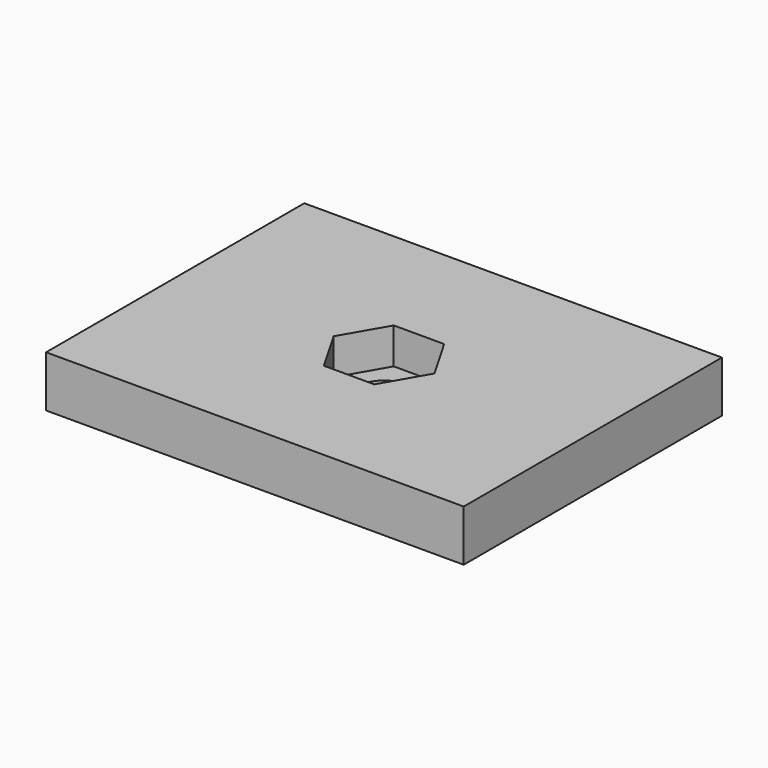
from build123d import *

# Parameters (mm, degrees)
F0_W     = 55.88
F0_H     = 43.18
F1_DEPTH = 6.858
F3_R     = 2.921
F4_DEPTH = 3.94335
F5_DEPTH = 4.826
F6_R     = 3.4925
F7_DEPTH = 25.4


with BuildPart() as f1:
    # F0 (on Top) → F1 (new body)
    with BuildSketch(Plane.XY):
        Rectangle(F0_W, F0_H)
    extrude(amount=F1_DEPTH)

    # F3 (on face) → F4 (cut)
    with BuildSketch(Plane(origin=(0, 0, 0), x_dir=(1, 0, 0), z_dir=(0, 0, -1))):
        with Locations((0, 13.97)):
            Circle(F3_R)
    extrude(amount=-F4_DEPTH, mode=Mode.SUBTRACT)

    # F2 (on face) → F5 (cut)
    with BuildSketch(Plane.XY.offset(6.858)):
        Polygon((3.37288, -5.842), (6.745761, 0), (3.37288, 5.842), (-3.37288, 5.842), (-6.745761, 0), (-3.37288, -5.842), align=None)
    extrude(amount=-F5_DEPTH, mode=Mode.SUBTRACT)

    # F6 (on face) → F7 (cut)
    with BuildSketch(Plane.XY.offset(2.032)):
        Circle(F6_R)
    extrude(amount=-F7_DEPTH, mode=Mode.SUBTRACT)


solid = f1.part
